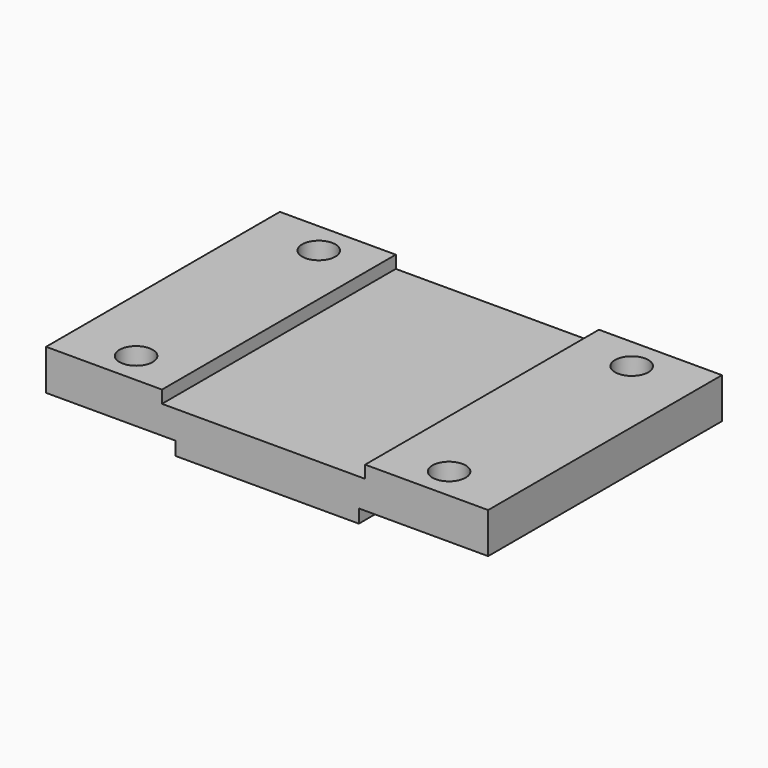
from build123d import *

# Parameters (mm, degrees)
F0_W     = 994.664
F0_H     = 2251.202
F0_R     = 128.27
F0_W_2   = 1416.304
F1_DEPTH = 416.306
F2_W     = 1565.148
F2_H     = 96.52
F2_W_2   = 996.188
F2_H_2   = 103.632
F3_DEPTH = 2540


with BuildPart() as f1:
    # F0 (on Top) → F1 (new body)
    with BuildSketch(Plane.XY):
        with Locations((-1204.531931, -162.398902)):
            Rectangle(F0_W, F0_H)
        with Locations((-1204.531931, -1042.804837)):
            Circle(F0_R, mode=Mode.SUBTRACT)
        with Locations((-1204.531931, 716.187477)):
            Circle(F0_R, mode=Mode.SUBTRACT)
        with Locations((0.952069, -162.398902)):
            Rectangle(F0_W_2, F0_H)
        with Locations((1206.436069, -162.398902)):
            Rectangle(F0_W, F0_H)
        with Locations((1206.436069, -1042.804837)):
            Circle(F0_R, mode=Mode.SUBTRACT)
        with Locations((1206.436069, 716.187477)):
            Circle(F0_R, mode=Mode.SUBTRACT)
    extrude(amount=F1_DEPTH)

    # F2 (on face) → F3 (cut)
    with BuildSketch(Plane.XZ.offset(1287.999902)):
        with Locations((-26.313184, 368.046)):
            Rectangle(F2_W, F2_H)
        with Locations((-1203.769931, 51.816)):
            Rectangle(F2_W_2, F2_H_2)
        with Locations((1205.674069, 51.816)):
            Rectangle(F2_W_2, F2_H_2)
    extrude(amount=-F3_DEPTH, mode=Mode.SUBTRACT)


solid = f1.part
